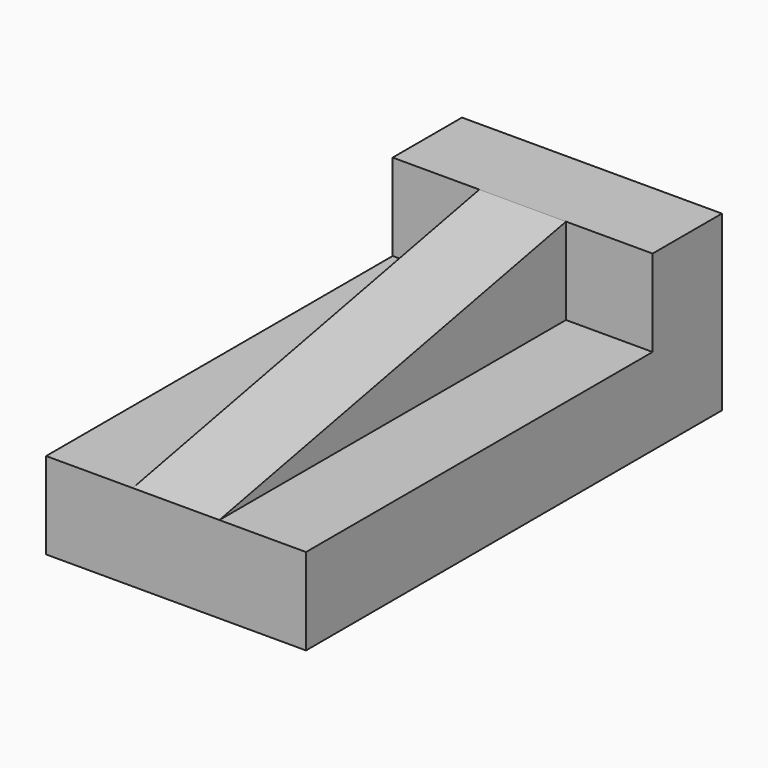
from build123d import *

# Parameters (mm, degrees)
F1_DEPTH      = 25.4
F2_DEPTH      = 50.8
F2_DEPTH_BACK = 25.4


with BuildPart() as f1:
    # F0 (on Right) → F1 (new body)
    with BuildSketch(Plane.YZ):
        Polygon((51.651922, -5.244167), (51.651922, 20.155833), (-75.348078, -5.244167), align=None)
    extrude(amount=F1_DEPTH)

    # F0 (on Right) → F2 (join, two sides)
    with BuildSketch(Plane.YZ) as f2_sk:
        Polygon((77.051922, -30.644167), (77.051922, 20.155833), (51.651922, 20.155833), (51.651922, -5.244167), (-75.348078, -5.244167), (-75.348078, -30.644167), align=None)
    extrude(amount=F2_DEPTH)
    extrude(f2_sk.sketch, amount=-F2_DEPTH_BACK)


solid = f1.part
